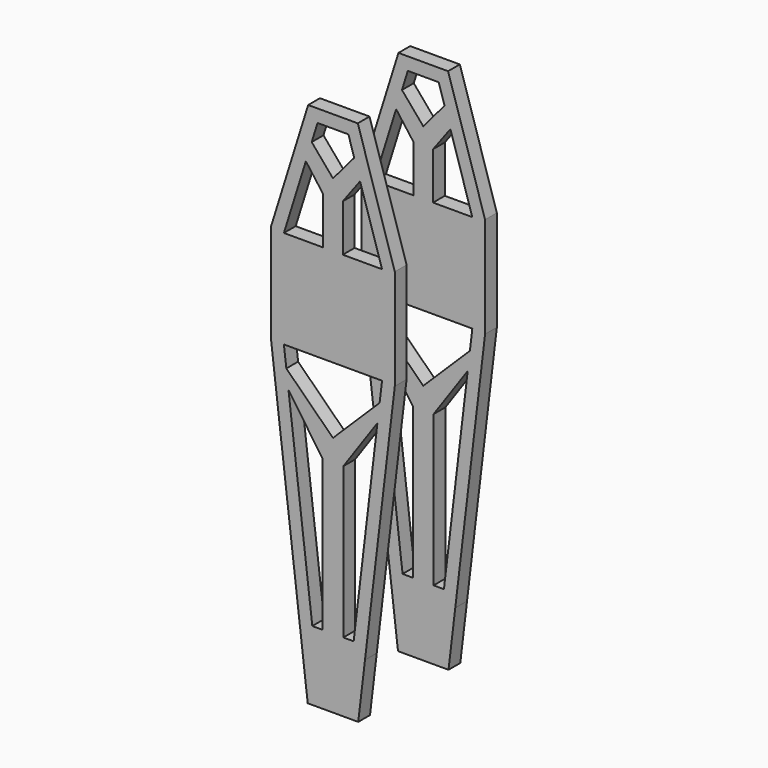
from build123d import *

# Parameters (mm, degrees)
F0_W     = 10.16
F0_H     = 24.3368128691
F2_DEPTH = 7.62
F3_DEPTH = 7.62


with BuildPart() as f2:
    # F0 (on Front) → F2 (new body)
    with BuildSketch(Plane.XZ):
        Polygon((-12.8450196363, 62.4070629297), (-32.0040002187, 1.0064022663), (-32.0040002187, -51.1913775905), (-16.5690759636, -180.9563927729), (0, -180.9563927729), (16.5690759636, -180.9563927729), (32.0040002187, -51.1913775905), (32.0040002187, 1.0064022663), (12.8450196363, 62.4070629297), (0, 62.4070629297), align=None)
        Polygon((-25.4, -50.8), (-25.4, 0), (-14.0403296378, 36.4054476782), (-11.013989809, 46.1042551946), (-7.9876499802, 55.803062711), (0, 55.803062711), (7.9876499802, 55.803062711), (11.013989809, 46.1042551946), (14.0403296378, 36.4054476782), (25.4, 0), (25.4, -50.8), (24.1467196463, -61.3366208112), (23.01173757, -70.8786803595), (10.7040373175, -174.3523925543), (5.3520186588, -174.3523925543), (0, -174.3523925543), (-5.3520186588, -174.3523925543), (-10.7040373175, -174.3523925543), (-23.01173757, -70.8786803595), (-24.1467196463, -61.3366208112), align=None, mode=Mode.SUBTRACT)
        Polygon((-5.08, 0), (-25.4, 0), (-25.4, -50.8), (25.4, -50.8), (25.4, 0), (5.08, 0), align=None)
        Polygon((5.3520186588, -96.3033139706), (-5.3520186588, -96.3033139706), (-5.3520186588, -174.3523925543), (0, -174.3523925543), (5.3520186588, -174.3523925543), align=None)
        Polygon((0, -85.1645011197), (-24.1467196463, -61.3366208112), (-23.01173757, -70.8786803595), (-5.3520186588, -96.3033139706), align=None)
        Polygon((23.01173757, -70.8786803595), (24.1467196463, -61.3366208112), (0, -85.1645011197), (5.3520186588, -96.3033139706), align=None)
        with Locations((0, 12.1684064346)):
            Rectangle(F0_W, F0_H)
        Polygon((0, 33.1356309716), (5.08, 24.3368128691), (14.0403296378, 36.4054476782), (11.013989809, 46.1042551946), align=None)
        Polygon((-11.013989809, 46.1042551946), (-14.0403296378, 36.4054476782), (-5.08, 24.3368128691), (0, 33.1356309716), align=None)
        Polygon((5.3520186588, -96.3033139706), (0, -85.1645011197), (-5.3520186588, -96.3033139706), align=None)
        Polygon((0, 33.1356309716), (-5.08, 24.3368128691), (5.08, 24.3368128691), align=None)
    extrude(amount=F2_DEPTH)

    # F0 (on Front) → F3 (join)
    with BuildSketch(Plane.XZ):
        Polygon((0, -180.9563927729), (-16.5690759636, -180.9563927729), (-13.0761187439, -210.3225003842), (13.0764695727, -210.3195508841), (16.5690759636, -180.9563927729), align=None)
    extrude(amount=F3_DEPTH)


with BuildPart() as f4_1:
    # F4: instance of F2
    add(f2.part.mirror(Plane.XZ.offset(-25.4)))


solid = Compound([f2.part, f4_1.part])
